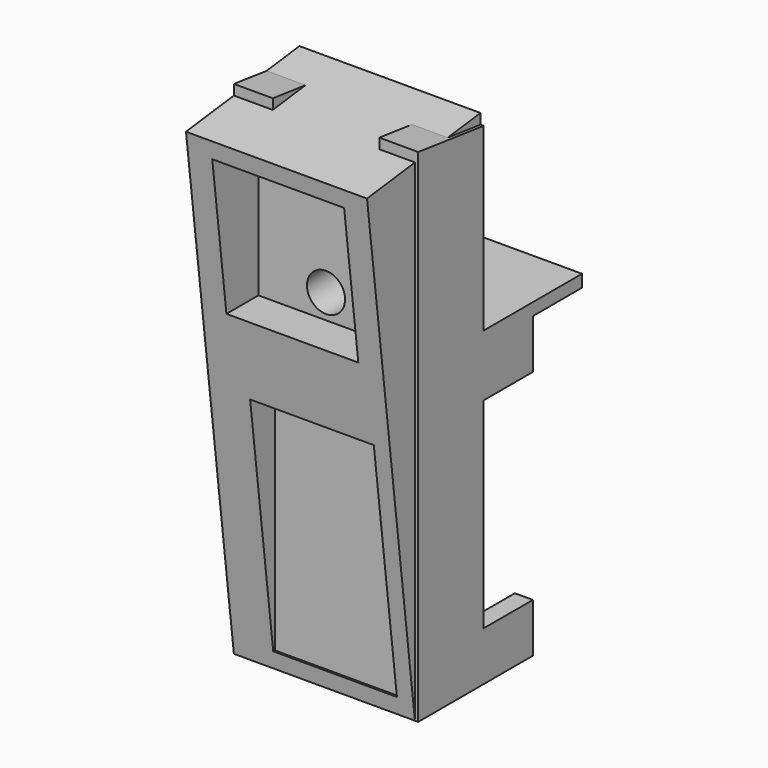
from build123d import *

# Parameters (mm, degrees)
SKETCH_W        = 45
SKETCH_H        = 20
PAD_DEPTH       = 120
PAD001_DEPTH    = 45
SKETCH002_R     = 4.65
POCKET_DEPTH    = 20
PAD002_DEPTH    = 15
PAD003_DEPTH    = 15
POCKET001_DEPTH = 9.8
SKETCH019_W     = 45
SKETCH019_H     = 3
PAD016_DEPTH    = 30
SKETCH005_W     = 10
SKETCH005_H     = 73
PAD004_DEPTH    = 5
PAD005_DEPTH    = 15
PAD006_DEPTH    = 5
PAD007_DEPTH    = 15
PAD008_DEPTH    = 5
SKETCH008_W     = 44.2
SKETCH008_H     = 4
PAD009_DEPTH    = 10
SKETCH009_W     = 30.2
SKETCH009_H     = 5
PAD010_DEPTH    = 8
SKETCH011_W     = 4
SKETCH011_H     = 5
PAD011_DEPTH    = 49
SKETCH013_W     = 4
SKETCH013_H     = 15
PAD012_DEPTH    = 49
SKETCH014_W     = 44.2
SKETCH014_H     = 20
PAD013_DEPTH    = 47
PAD014_DEPTH    = 44.2
PAD015_DEPTH    = 44.2
SKETCH017_W     = 30.2
SKETCH017_H     = 57
POCKET002_DEPTH = 10
SKETCH018_W     = 32.2
SKETCH018_H     = 35
POCKET003_DEPTH = 50


with BuildPart() as body:
    # Sketch → Pad (new body)
    with BuildSketch(Plane.XY):
        with Locations((22.5, 10)):
            Rectangle(SKETCH_W, SKETCH_H)
    extrude(amount=PAD_DEPTH)

    # Sketch001 (on Face2 of Pad) → Pad001 (join)
    with BuildSketch(Plane.YZ.offset(45)):
        Polygon((0, 120), (0, 122.5), (20, 120), align=None)
    extrude(amount=-PAD001_DEPTH)

    # Sketch002 (on Face6 of Pad001) → Pocket (cut)
    with BuildSketch(Plane.XZ):
        with Locations((22.5, 85)):
            Circle(SKETCH002_R)
    extrude(amount=-POCKET_DEPTH, mode=Mode.SUBTRACT)

    # Sketch003 (on Face1 of Pocket) → Pad002 (join)
    with BuildSketch(Plane(origin=(0, 20, 0), x_dir=(-1, 0, 0), z_dir=(0, 1, 0))):
        Polygon((-4.4, 4), (-40.6, 4), (-40.6, 12), (-45, 12), (-45, 0), (0, 0), (0, 12), (-4.4, 12), align=None)
    extrude(amount=PAD002_DEPTH)

    # Sketch004 (on Face1 of Pad002) → Pad003 (join)
    with BuildSketch(Plane(origin=(0, 20, 0), x_dir=(-1, 0, 0), z_dir=(0, 1, 0))):
        Polygon((0, 73), (-45, 73), (-45, 61), (-40.6, 61), (-40.6, 69), (-4.4, 69), (-4.4, 61), (0, 61), align=None)
    extrude(amount=PAD003_DEPTH)

    # Sketch010 (on Face27 of Pad003) → Pocket001 (cut)
    with BuildSketch(Plane(origin=(0, 15.0769230769, 120.6153846154), x_dir=(1, 0, 0), z_dir=(0, 0.1240347346, 0.9922778767))):
        Polygon((9.5, 4.9613893836), (9.5, -15.1942549872), (35.5, -15.1942549872), (35.5, 4.9613893836), (35.5, 6.9613893836), (9.5, 6.9613893836), align=None)
    extrude(amount=-POCKET001_DEPTH, mode=Mode.SUBTRACT)

    # Sketch019 (on Face17 of Pocket001) → Pad016 (join)
    with BuildSketch(Plane(origin=(0, 20, 0), x_dir=(-1, 0, 0), z_dir=(0, 1, 0))):
        with Locations((-22.5, 74.5)):
            Rectangle(SKETCH019_W, SKETCH019_H)
    extrude(amount=PAD016_DEPTH)


with BuildPart() as batteryrearmotorholder001:
    # Sketch005 → Pad004 (new body)
    with BuildSketch(Plane.XZ):
        with Locations((5, 36.5)):
            Rectangle(SKETCH005_W, SKETCH005_H)
    extrude(amount=-PAD004_DEPTH)

    # Sketch006 (on Face6 of Pad004) → Pad005 (join)
    with BuildSketch(Plane(origin=(0, 5, 0), x_dir=(1, 0, 0), z_dir=(0, 1, 0))):
        Polygon((0, 0), (10, 0), (44.2, 0), (44.2, -12), (40.2, -12), (40.2, -4), (4, -4), (4, -12), (0, -12), align=None)
    extrude(amount=PAD005_DEPTH)

    # Sketch006 (on Face6 of Pad004) → Pad006 (join)
    with BuildSketch(Plane(origin=(0, 5, 0), x_dir=(1, 0, 0), z_dir=(0, 1, 0))):
        Polygon((0, 0), (10, 0), (44.2, 0), (44.2, -12), (40.2, -12), (40.2, -4), (4, -4), (4, -12), (0, -12), align=None)
    extrude(amount=-PAD006_DEPTH)

    # Sketch007 (on Face6 of Pad004) → Pad007 (join)
    with BuildSketch(Plane(origin=(0, 5, 0), x_dir=(1, 0, 0), z_dir=(0, 1, 0))):
        Polygon((0, -73), (0, -61), (4, -61), (4, -69), (40.2, -69), (40.2, -61), (44.2, -61), (44.2, -73), align=None)
    extrude(amount=PAD007_DEPTH)

    # Sketch007 (on Face6 of Pad004) → Pad008 (join)
    with BuildSketch(Plane(origin=(0, 5, 0), x_dir=(1, 0, 0), z_dir=(0, 1, 0))):
        Polygon((0, -73), (0, -61), (4, -61), (4, -69), (40.2, -69), (40.2, -61), (44.2, -61), (44.2, -73), align=None)
    extrude(amount=-PAD008_DEPTH)

    # Sketch008 (on Face33 of Pad008) → Pad009 (join)
    with BuildSketch(Plane(origin=(0, 20, 0), x_dir=(1, 0, 0), z_dir=(0, 1, 0))):
        with Locations((22.1, -71)):
            Rectangle(SKETCH008_W, SKETCH008_H)
    extrude(amount=PAD009_DEPTH)

    # Sketch009 (on Face32 of Pad009) → Pad010 (join)
    with BuildSketch(Plane(origin=(0, 0, 69), x_dir=(1, 0, 0), z_dir=(0, 0, -1))):
        with Locations((25.1, -2.5)):
            Rectangle(SKETCH009_W, SKETCH009_H)
    extrude(amount=PAD010_DEPTH)

    # Sketch011 (on Face16 of Pad009) → Pad011 (join)
    with BuildSketch(Plane(origin=(0, 0, 12), x_dir=(-1, 0, 0), z_dir=(0, 0, 1))):
        with Locations((-42.2, -2.5)):
            Rectangle(SKETCH011_W, SKETCH011_H)
    extrude(amount=PAD011_DEPTH)

    # Sketch013 (on Face45 of Pad011) → Pad012 (join)
    with BuildSketch(Plane(origin=(0, 0, 61), x_dir=(1, 0, 0), z_dir=(0, 0, -1))):
        with Locations((42.2, -12.5)):
            Rectangle(SKETCH013_W, SKETCH013_H)
    extrude(amount=PAD012_DEPTH)

    # Sketch014 (on Face44 of Pad012) → Pad013 (join)
    with BuildSketch(Plane(origin=(0, 0, 73), x_dir=(-1, 0, 0), z_dir=(0, 0, 1))):
        with Locations((-22.1, -10)):
            Rectangle(SKETCH014_W, SKETCH014_H)
    extrude(amount=PAD013_DEPTH)

    # Sketch015 (on Face33 of Pad013) → Pad014 (join)
    with BuildSketch(Plane(origin=(0, 0, 0), x_dir=(0, 0, -1), z_dir=(-1, 0, 0))):
        Polygon((-120, 0), (-120, -20), (-122.5, -20), align=None)
    extrude(amount=-PAD014_DEPTH)

    # Sketch016 (on Face33 of Pad014) → Pad015 (join)
    with BuildSketch(Plane(origin=(0, 0, 0), x_dir=(0, 0, -1), z_dir=(-1, 0, 0))):
        Polygon((-120, 0), (0, 0), (-118.1725, 14.62), align=None)
    extrude(amount=-PAD015_DEPTH)

    # Sketch017 (on Face48 of Pad015) → Pocket002 (cut)
    with BuildSketch(Plane(origin=(0, 0, 0), x_dir=(1, 0, 0), z_dir=(0, 1, 0))):
        with Locations((25.1, -32.5)):
            Rectangle(SKETCH017_W, SKETCH017_H)
    extrude(amount=-POCKET002_DEPTH, mode=Mode.SUBTRACT)

    # Sketch018 (on Face36 of Pocket002) → Pocket003 (cut)
    with BuildSketch(Plane(origin=(0, 20, 0), x_dir=(1, 0, 0), z_dir=(0, 1, 0))):
        with Locations((22.1, -96.5)):
            Rectangle(SKETCH018_W, SKETCH018_H)
    extrude(amount=-POCKET003_DEPTH, mode=Mode.SUBTRACT)


solid = Compound([body.part, batteryrearmotorholder001.part])
